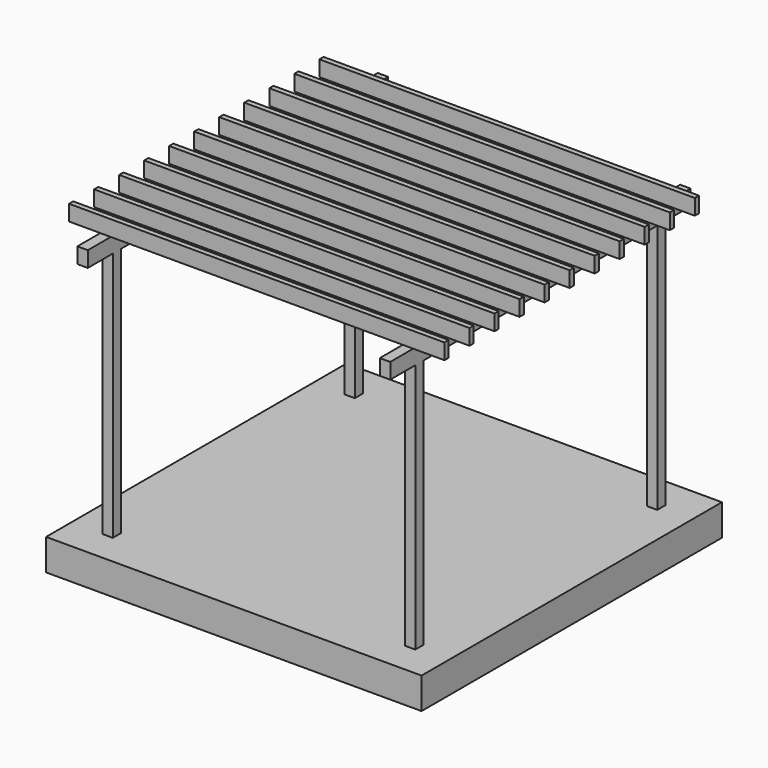
from build123d import *

# Parameters (mm, degrees)
F0_W     = 3657.6
F0_H     = 3657.6
F1_DEPTH = 304.8
F2_W     = 101.6
F2_H     = 101.6
F3_DEPTH = 2438.4
F4_W     = 101.6
F4_H     = 3657.6
F5_DEPTH = 152.4
F6_W     = 3657.6
F6_H     = 50.8
F7_DEPTH = 152.4


with BuildPart() as f1:
    # F0 (on Top) → F1 (new body)
    with BuildSketch(Plane.XY):
        Rectangle(F0_W, F0_H)
    extrude(amount=-F1_DEPTH)

    # F2 (on face) → F3 (join)
    with BuildSketch(Plane.XY):
        with Locations((-1473.2, 1473.2)):
            Rectangle(F2_W, F2_H)
        with Locations((1473.2, 1473.2)):
            Rectangle(F2_W, F2_H)
        with Locations((1473.2, -1473.2)):
            Rectangle(F2_W, F2_H)
        with Locations((-1473.2, -1473.2)):
            Rectangle(F2_W, F2_H)
    extrude(amount=F3_DEPTH)

    # F4 (on face) → F5 (join)
    with BuildSketch(Plane.XY.offset(2438.4)):
        with Locations((-1473.2, 0)):
            Rectangle(F4_W, F4_H)
        with Locations((1473.2, 0)):
            Rectangle(F4_W, F4_H)
    extrude(amount=F5_DEPTH)

    # F6 (on face) → F7 (join)
    with BuildSketch(Plane.XY.offset(2590.8)):
        with Locations((0, -1524)):
            Rectangle(F6_W, F6_H)
        with Locations((0, -1219.2)):
            Rectangle(F6_W, F6_H)
        with Locations((0, -914.4)):
            Rectangle(F6_W, F6_H)
        with Locations((0, -609.6)):
            Rectangle(F6_W, F6_H)
        with Locations((0, -304.8)):
            Rectangle(F6_W, F6_H)
        Rectangle(F6_W, F6_H)
        with Locations((0, 304.8)):
            Rectangle(F6_W, F6_H)
        with Locations((0, 609.6)):
            Rectangle(F6_W, F6_H)
        with Locations((0, 914.4)):
            Rectangle(F6_W, F6_H)
        with Locations((0, 1219.2)):
            Rectangle(F6_W, F6_H)
        with Locations((0, 1524)):
            Rectangle(F6_W, F6_H)
    extrude(amount=F7_DEPTH)


solid = f1.part
